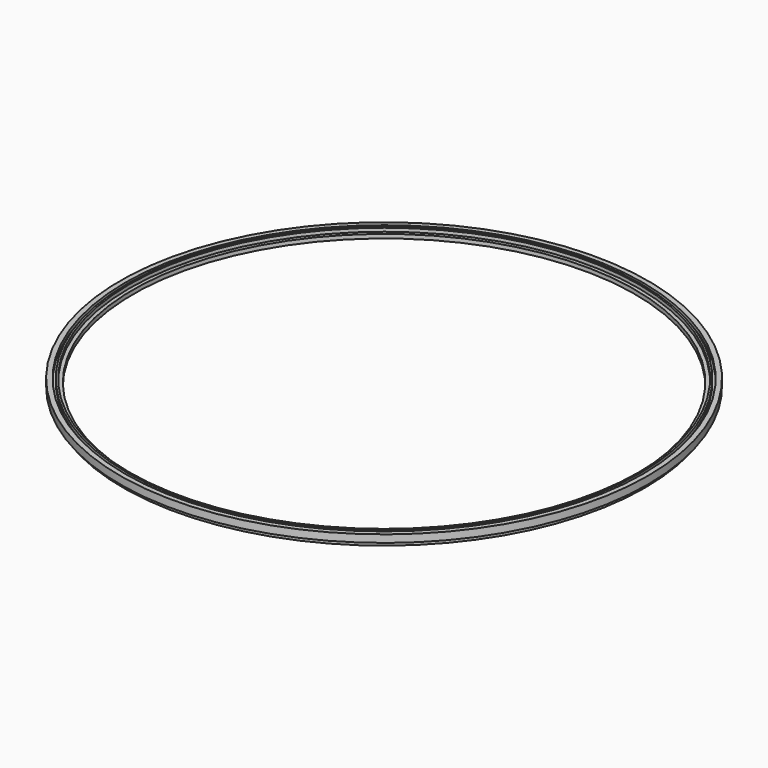
from build123d import *


with BuildPart() as f1:
    # F0 (on Front) → F1 (revolve)
    with BuildSketch(Plane.XZ):
        Polygon((0, 10.16), (0, 0), (9.398007, 0), (9.398007, -3.81), (13.970003, -3.81), (13.970003, 0), (20.320003, 0), (20.320003, -10.16), (25.399998, -10.16), (25.399998, 0), (33.020003, 0), (33.020003, 19.05), (20.320003, 19.05), (20.320003, 10.16), (13.970003, 10.16), (13.970003, 19.05), (9.398007, 19.05), (9.398007, 10.16), align=None)
    revolve(axis=Axis((-635, 0, -0.841798), (0, 0, -1)))


solid = f1.part
